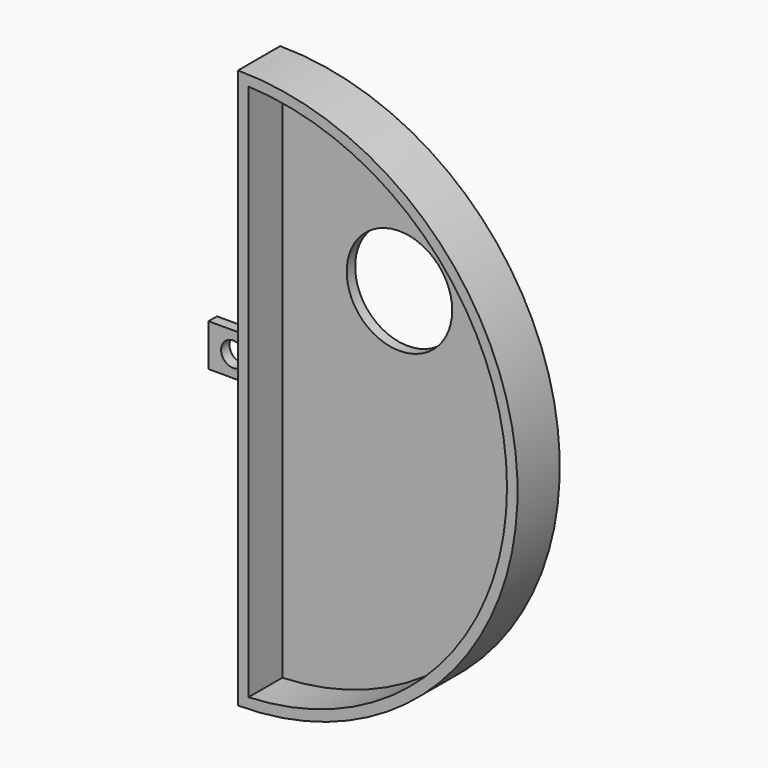
from build123d import *

# Parameters (mm, degrees)
F1_DEPTH = 10
F2_T     = -2
F3_W     = 12
F3_H     = 8
F4_DEPTH = 2
F5_R     = 2.3
F6_DEPTH = 3
F7_R     = 10
F8_DEPTH = 25


with BuildPart() as f1:
    # F0 (on Front) → F1 (new body)
    with BuildSketch(Plane.XZ):
        with BuildLine():
            Line((-0.003568, 53), (-0.003093, -53))
            ThreePointArc((-0.003093, -53), (53, 0.000237), (-0.003568, 53))
        make_face()
    extrude(amount=F1_DEPTH)

    # F2
    f2_openings = [f1.faces().sort_by_distance(p)[0] for p in [
        (22.492099, -10, 0.000101),
    ]]
    offset(amount=F2_T, openings=f2_openings)

    # F3 (on Front) → F4 (join)
    with BuildSketch(Plane.XZ):
        with Locations((-6, 0)):
            Rectangle(F3_W, F3_H)
    extrude(amount=F4_DEPTH)

    # F5 (on face) → F6 (cut)
    with BuildSketch(Plane(origin=(0, 0, 0), x_dir=(-1, 0, 0), z_dir=(0, 1, 0))):
        with Locations((7.3, 0)):
            Circle(F5_R)
    extrude(amount=-F6_DEPTH, mode=Mode.SUBTRACT)

    # F7 (on face) → F8 (cut)
    with BuildSketch(Plane.XZ.offset(2)):
        with Locations((24.209062, 20.817809)):
            Circle(F7_R)
    extrude(amount=-F8_DEPTH, mode=Mode.SUBTRACT)


solid = f1.part
